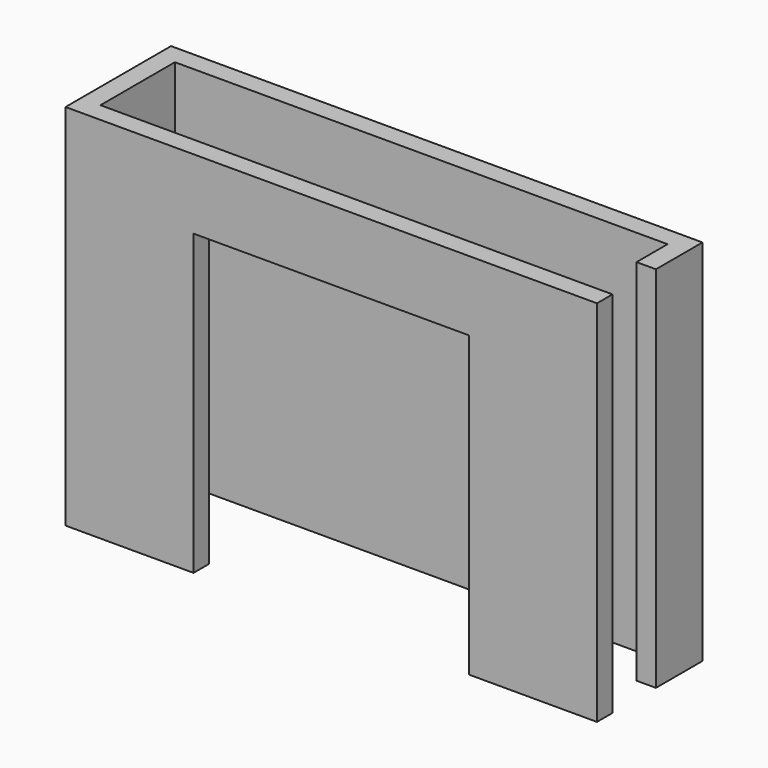
from build123d import *

# Parameters (mm, degrees)
F1_DEPTH = 2413
F2_W     = 1803.4
F2_H     = 457.2
F3_DEPTH = 127
F4_W     = 127
F4_H     = 355.6
F5_DEPTH = 2413.001


with BuildPart() as f1:
    # F0 (on Top) → F1 (new body)
    with BuildSketch(Plane.XY):
        Polygon((-1739.9, 736.6), (-1739.9, -127), (-901.7, -127), (-901.7, 0), (-1612.9, 0), (-1612.9, 609.6), (1612.9, 609.6), (1612.9, 0), (901.7, 0), (901.7, -127), (1739.9, -127), (1739.9, 736.6), align=None)
    extrude(amount=F1_DEPTH)

    # F2 (on face) → F3 (join, through all)
    with BuildSketch(Plane.XZ.offset(127)):
        with Locations((0, 2184.4)):
            Rectangle(F2_W, F2_H)
    extrude(amount=-F3_DEPTH)

    # F4 (on face) → F5 (cut, through all)
    with BuildSketch(Plane.XY.offset(2413)):
        with Locations((1676.4, 177.8)):
            Rectangle(F4_W, F4_H)
    extrude(amount=-F5_DEPTH, mode=Mode.SUBTRACT)


solid = f1.part
